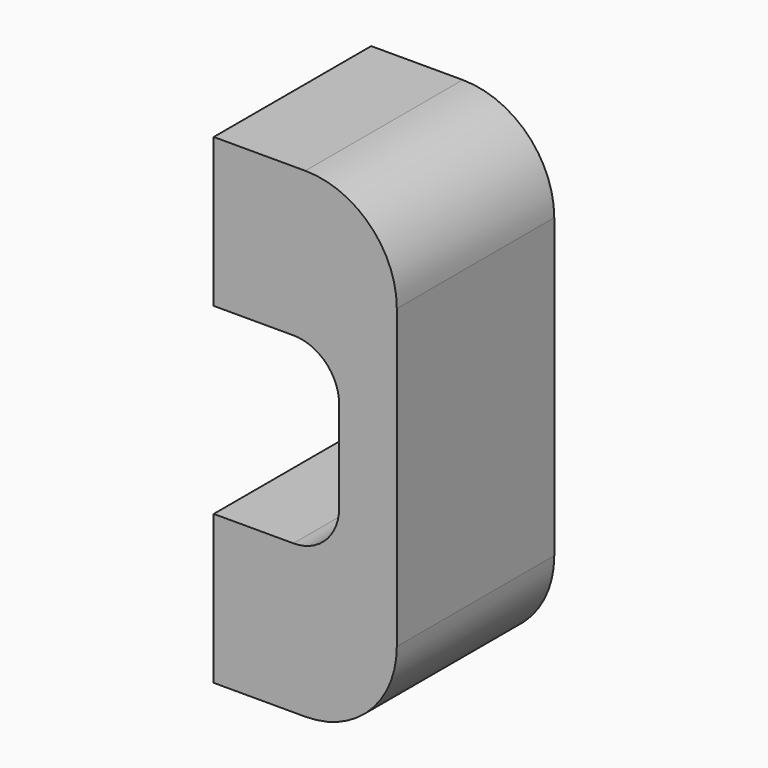
from build123d import *

# Parameters (mm, degrees)
F0_W     = 50.8
F0_H     = 54.61
F1_DEPTH = 133.35
F3_D     = 4.0386
F3_DEPTH = 17.6276
F3_TIP   = 1.213317848
F5_DEPTH = 54.611


with BuildPart() as f1:
    # F0 (on Top) → F1 (new body)
    with BuildSketch(Plane.XY):
        with Locations((25.4, 27.305)):
            Rectangle(F0_W, F0_H)
    extrude(amount=F1_DEPTH)

    # F3
    with Locations(Plane(origin=(0, 0, 0), x_dir=(0, -1, 0), z_dir=(-1, 0, 0))):
        with Locations((-11.557, 22.225), (-43.053, 22.225), (-11.557, 111.125), (-43.053, 111.125)):
            Hole(F3_D / 2, depth=F3_DEPTH)
            with Locations((0, 0, -(F3_DEPTH + F3_TIP / 2))):  # 118° drill point
                Cone(0, F3_D / 2, F3_TIP, mode=Mode.SUBTRACT)

    # F4 (on face) → F5 (intersect, through all)
    with BuildSketch(Plane(origin=(0, 54.61, 0), x_dir=(-1, 0, 0), z_dir=(0, 1, 0))):
        with BuildLine():
            Line((-22.098, 92.075), (0, 92.075))
            Line((0, 92.075), (0, 133.35))
            Line((0, 133.35), (-25.4, 133.35))
            ThreePointArc((-25.4, 133.35), (-43.3605122421, 125.9105122421), (-50.8, 107.95))
            Line((-50.8, 107.95), (-50.8, 25.4))
            ThreePointArc((-50.8, 25.4), (-43.3605122421, 7.4394877579), (-25.4, 0))
            Line((-25.4, 0), (0, 0))
            Line((0, 0), (0, 41.275))
            Line((0, 41.275), (-22.098, 41.275))
            ThreePointArc((-22.098, 41.275), (-31.0782561211, 44.9947438789), (-34.798, 53.975))
            Line((-34.798, 53.975), (-34.798, 79.375))
            ThreePointArc((-34.798, 79.375), (-31.0782561211, 88.3552561211), (-22.098, 92.075))
        make_face()
    extrude(amount=-F5_DEPTH, mode=Mode.INTERSECT)


solid = f1.part
